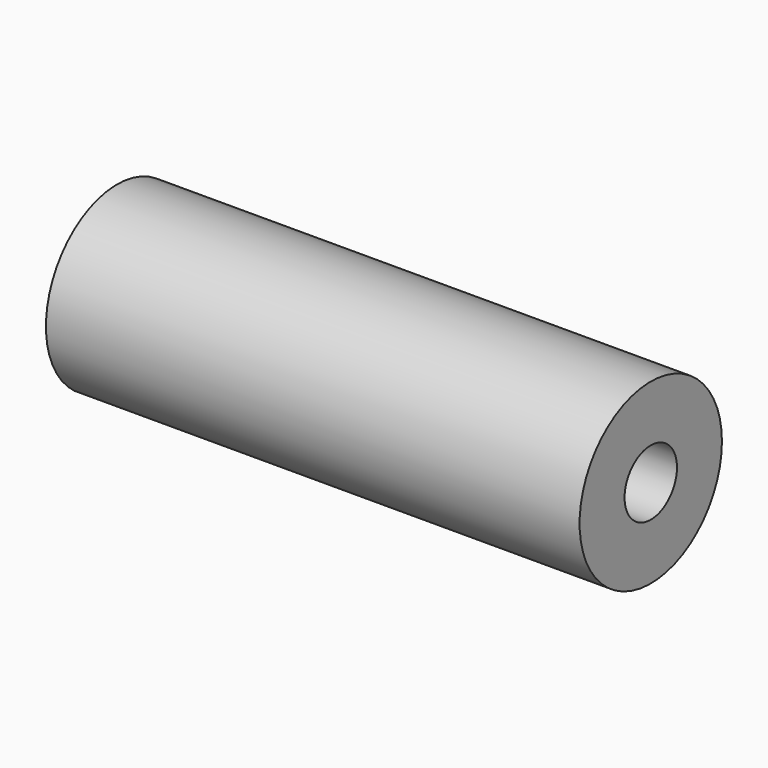
from build123d import *

# Parameters (mm, degrees)
F0_R       = 6.35
F1_DEPTH   = 19.05
F4_R       = 2.3387697461
F1_FACE1_R = 6.35
F5_DEPTH   = 50.292


with BuildPart() as f1:
    # F0 (on Right) → F1 (new body, symmetric)
    with BuildSketch(Plane.YZ):
        Circle(F0_R)
    extrude(amount=F1_DEPTH, both=True)

    # F4 (on offset) + F1_face1 (on face) → F5 (cut)
    with BuildSketch(Plane.YZ.offset(19.05)):
        Circle(F4_R)
    with BuildSketch(Plane(origin=(-19.05, 0, 0), x_dir=(0, 1, 0), z_dir=(-1, 0, 0))):
        Circle(F1_FACE1_R)
    extrude(amount=-F5_DEPTH, dir=(1, 0, 0), mode=Mode.SUBTRACT)


solid = f1.part
